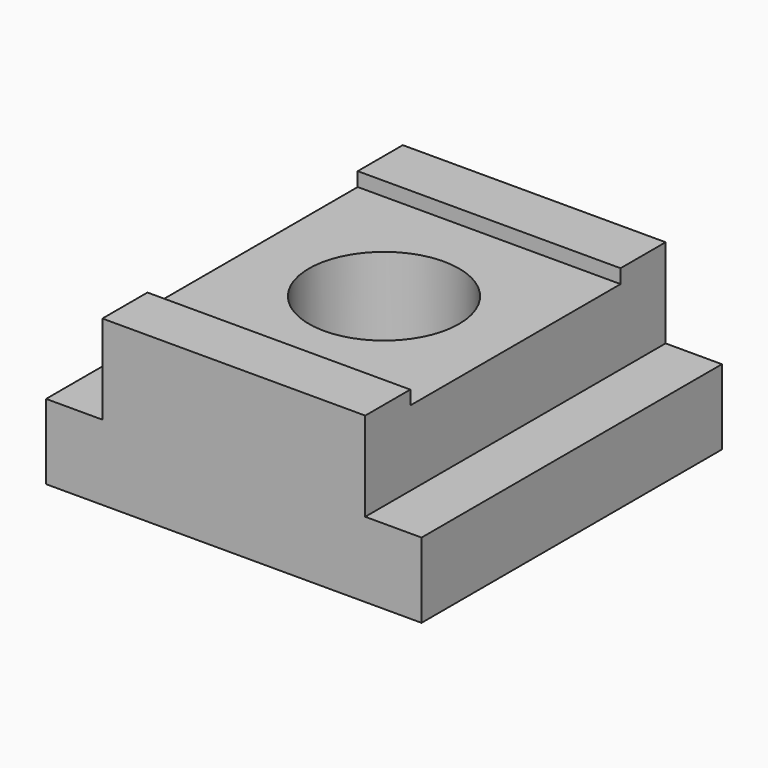
from build123d import *

# Parameters (mm, degrees)
F0_W     = 70
F0_H     = 23.720817
F2_DEPTH = 1000
F1_W     = 100
F1_H     = 100
F1_W_2   = 70
F1_H_2   = 70
F3_DEPTH = 1000
F1_R     = 20
F4_DEPTH = 40


with BuildPart() as f2:
    # F0 (on Front) → F2 (new body)
    with BuildSketch(Plane.XZ):
        Polygon((0, 20), (0, 0), (100, 0), (100, 20), (85, 20), (15, 20), align=None)
        with Locations((50, 31.860408)):
            Rectangle(F0_W, F0_H)
    extrude(amount=-F2_DEPTH)

    # F1 (on Top) → F3 (intersect)
    with BuildSketch(Plane.XY):
        with Locations((50, 50)):
            Rectangle(F1_W, F1_H)
        with Locations((50, 50)):
            Rectangle(F1_W_2, F1_H_2, mode=Mode.SUBTRACT)
    extrude(amount=F3_DEPTH, mode=Mode.INTERSECT)

    # F1 (on Top) → F4 (join)
    with BuildSketch(Plane.XY):
        with Locations((50, 50)):
            Rectangle(F1_W_2, F1_H_2)
        with Locations((50, 50)):
            Circle(F1_R, mode=Mode.SUBTRACT)
    extrude(amount=F4_DEPTH)


solid = f2.part
